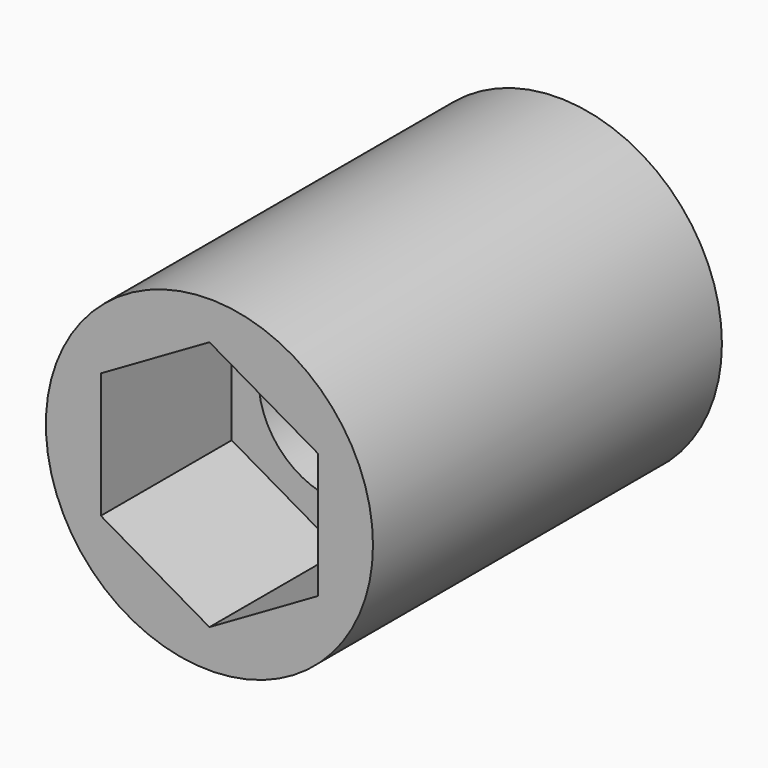
from build123d import *

# Parameters (mm, degrees)
F0_R     = 9.525
F1_DEPTH = 25.4
F3_DEPTH = 25.401
F4_DEPTH = 11.0998
F6_DEPTH = 9.525


with BuildPart() as f1:
    # F0 (on Front) → F1 (new body)
    with BuildSketch(Plane.XZ):
        Circle(F0_R)
    extrude(amount=F1_DEPTH)

    # F2 (on face) → F3 (cut, through all)
    with BuildSketch(Plane(origin=(0, 0, 0), x_dir=(-1, 0, 0), z_dir=(0, 1, 0))):
        with BuildLine():
            ThreePointArc((4.7625, 0), (3.367596, 3.367596), (0, 4.7625))
            ThreePointArc((0, 4.7625), (-3.367596, 3.367596), (-4.7625, 0))
            ThreePointArc((-4.7625, 0), (-3.367596, -3.367596), (0, -4.7625))
            ThreePointArc((0, -4.7625), (3.367596, -3.367596), (4.7625, 0))
        make_face()
    extrude(amount=-F3_DEPTH, mode=Mode.SUBTRACT)

    # F2 (on face) → F4 (cut)
    with BuildSketch(Plane(origin=(0, 0, 0), x_dir=(-1, 0, 0), z_dir=(0, 1, 0))):
        with BuildLine():
            Line((0, 4.7625), (-4.7625, 4.7625))
            Line((-4.7625, 4.7625), (-4.7625, 0))
            ThreePointArc((-4.7625, 0), (-3.367596, 3.367596), (0, 4.7625))
        make_face()
        with BuildLine():
            Line((4.7625, 4.7625), (0, 4.7625))
            ThreePointArc((0, 4.7625), (3.367596, 3.367596), (4.7625, 0))
            Line((4.7625, 0), (4.7625, 4.7625))
        make_face()
        with BuildLine():
            ThreePointArc((0, -4.7625), (-3.367596, -3.367596), (-4.7625, 0))
            Line((-4.7625, 0), (-4.7625, -4.7625))
            Line((-4.7625, -4.7625), (0, -4.7625))
        make_face()
        with BuildLine():
            Line((4.7625, -4.7625), (4.7625, 0))
            ThreePointArc((4.7625, 0), (3.367596, -3.367596), (0, -4.7625))
            Line((0, -4.7625), (4.7625, -4.7625))
        make_face()
    extrude(amount=-F4_DEPTH, mode=Mode.SUBTRACT)

    # F5 (on face) → F6 (cut)
    with BuildSketch(Plane.XZ.offset(25.4)):
        Polygon((-6.324151, 3.65125), (-6.324151, -3.65125), (0, -7.3025), (6.324151, -3.65125), (6.324151, 3.65125), (0, 7.3025), align=None)
    extrude(amount=-F6_DEPTH, mode=Mode.SUBTRACT)


solid = f1.part
